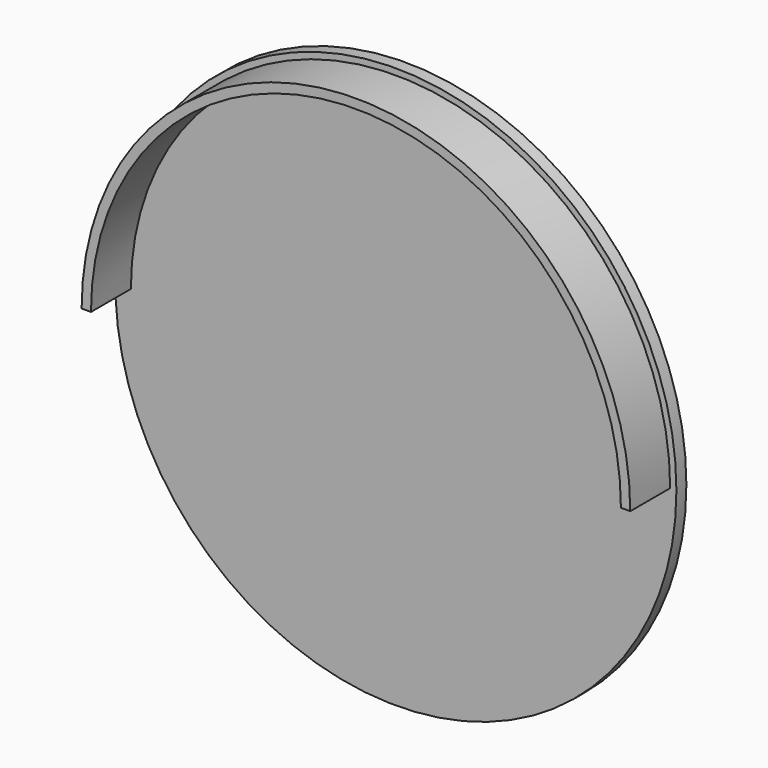
from build123d import *

# Parameters (mm, degrees)
F0_R     = 57.15
F1_DEPTH = 2.54
F3_DEPTH = 12.7


with BuildPart() as f1:
    # F0 (on Front) → F1 (new body)
    with BuildSketch(Plane.XZ):
        Circle(F0_R)
    extrude(amount=F1_DEPTH)

    # F2 (on Front) → F3 (join)
    with BuildSketch(Plane.XZ):
        with BuildLine():
            ThreePointArc((-53.975, 0), (0, 53.975), (53.975, 0))
            Line((53.975, 0), (55.88, 0))
            ThreePointArc((55.88, 0), (0, 55.88), (-55.88, 0))
            Line((-55.88, 0), (-53.975, 0))
        make_face()
    extrude(amount=F3_DEPTH)


solid = f1.part
